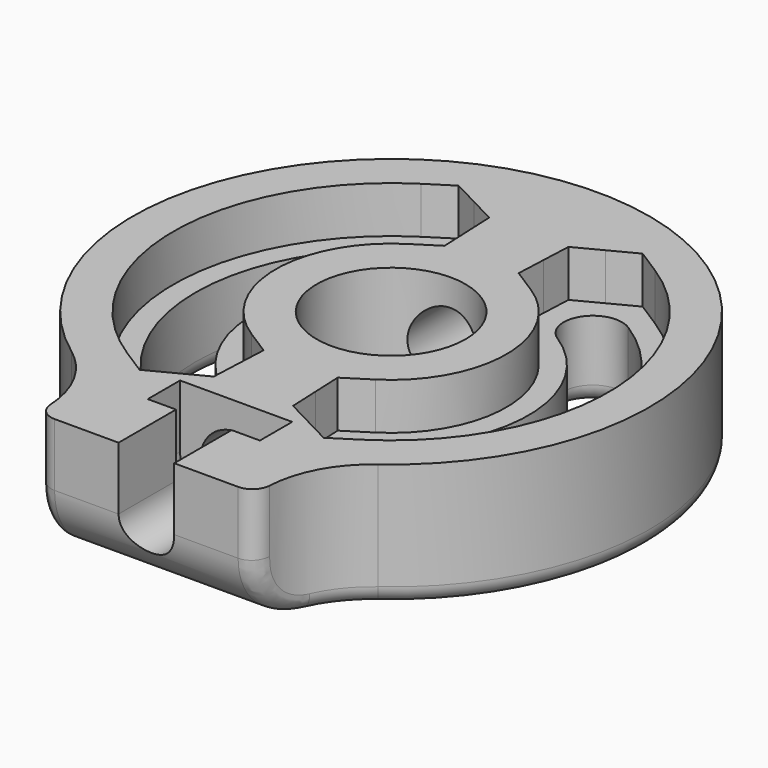
from build123d import *

# Parameters (mm, degrees)
SKETCH_R          = 4.15
EXTRUDE_DEPTH     = 7
FILLET_R          = 6
POCKET_DEPTH      = 20.501
POCKET_DEPTH_BACK = 8.301
SKETCH002_R       = 1.55
POCKET001_DEPTH   = 4
SKETCH003_R       = 2
POCKET002_DEPTH   = 27.445156
POCKET003_DEPTH   = 3.5
POCKET004_DEPTH   = 2.25
POCKET005_DEPTH   = 2.6
FILLET001_R       = 1


with BuildPart() as part:
    # Sketch → Extrude (new body)
    with BuildSketch(Plane.XY):
        with BuildLine():
            ThreePointArc((6.1, -13.044156), (0, 14.4), (-6.1, -13.044156))
            Line((-6.1, -17.044156), (-6.1, -13.044156))
            Line((6.1, -17.044156), (-6.1, -17.044156))
            Line((6.1, -13.044156), (6.1, -17.044156))
        make_face()
        Circle(SKETCH_R, mode=Mode.SUBTRACT)
        with BuildLine():
            ThreePointArc((-4.110342, 6.451945), (-7.65, 0), (-4.110342, -6.451945))
            ThreePointArc((-5.856566, -9.192967), (-3.612943, -8.695568), (-4.110342, -6.451945))
            ThreePointArc((-5.856566, 9.192967), (-10.9, 0), (-5.856566, -9.192967))
            ThreePointArc((-4.110342, 6.451945), (-3.612943, 8.695568), (-5.856566, 9.192967))
        make_face(mode=Mode.SUBTRACT)
        with BuildLine():
            ThreePointArc((4.110342, -6.451945), (7.65, 0), (4.110342, 6.451945))
            ThreePointArc((5.856566, 9.192967), (3.612943, 8.695568), (4.110342, 6.451945))
            ThreePointArc((5.856566, -9.192967), (10.9, 0), (5.856566, 9.192967))
            ThreePointArc((4.110342, -6.451945), (3.612943, -8.695568), (5.856566, -9.192967))
        make_face(mode=Mode.SUBTRACT)
    extrude(amount=EXTRUDE_DEPTH)

    # Fillet
    fillet_edges = [part.edges().sort_by_distance(p)[0] for p in [
        (6.1, -13.044156, 3.5),
        (-6.1, -13.044156, 3.5),
    ]]
    fillet(fillet_edges, radius=FILLET_R)

    # Sketch001 → Pocket (cut, two sides)
    with BuildSketch(Plane.YZ.offset(6.1)) as pocket_sk:
        with BuildLine():
            Line((-17.044156, 3.5), (-17.044156, 0))
            Line((-17.044156, 0), (-13.544156, 0))
            ThreePointArc((-17.044156, 3.5), (-16.01903, 1.025126), (-13.544156, 0))
        make_face()
    extrude(amount=-POCKET_DEPTH, mode=Mode.SUBTRACT)
    extrude(pocket_sk.sketch, amount=POCKET_DEPTH_BACK, mode=Mode.SUBTRACT)

    # Sketch002 → Pocket001 (cut)
    with BuildSketch(Plane.XZ.offset(17.044156)):
        with Locations((0, 3.5)):
            Circle(SKETCH002_R)
    extrude(amount=-POCKET001_DEPTH, mode=Mode.SUBTRACT)

    # Sketch003 → Pocket002 (cut, through all)
    with BuildSketch(Plane.XZ.offset(13.044156)):
        with Locations((0, 3.5)):
            Circle(SKETCH003_R)
    extrude(amount=-POCKET002_DEPTH, mode=Mode.SUBTRACT)

    # Sketch004 → Pocket003 (cut)
    with BuildSketch(Plane.XY.offset(7)):
        Polygon((-3.125, -10.794156), (-3.125, -13.044156), (-1.55, -13.044156), (-1.55, -17.044156), (1.55, -17.044156), (1.55, -13.044156), (3.125, -13.044156), (3.125, -10.794156), align=None)
    extrude(amount=-POCKET003_DEPTH, mode=Mode.SUBTRACT)

    # Sketch005 → Pocket004 (cut)
    with BuildSketch(Plane.XZ.offset(10.794156)):
        with BuildLine():
            Line((-3.125, 3.5), (3.125, 3.5))
            ThreePointArc((-3.125, 3.5), (0, 0.375), (3.125, 3.5))
        make_face()
    extrude(amount=POCKET004_DEPTH, mode=Mode.SUBTRACT)

    # Sketch006 → Pocket005 (cut)
    with BuildSketch(Plane.XY.offset(7)):
        with BuildLine():
            ThreePointArc((-3.45215, 5.41879), (-6.425, 0), (-3.45215, -5.41879))
            Line((-3.45215, -5.41879), (-2.064393, -6.302889))
            Line((-2.064393, -6.302889), (-2.136166, -7.946771))
            Line((-2.136166, -7.946771), (-2.20794, -9.590653))
            Line((-2.20794, -9.590653), (-3.66747, -10.350437))
            Line((-3.66747, -10.350437), (-5.127001, -11.11022))
            Line((-5.127001, -11.11022), (-6.514758, -10.226121))
            ThreePointArc((-6.514758, 10.226121), (-12.125, 0), (-6.514758, -10.226121))
            Line((-6.514758, 10.226121), (-5.127001, 11.11022))
            Line((-5.127001, 11.11022), (-3.66747, 10.350437))
            Line((-3.66747, 10.350437), (-2.20794, 9.590653))
            Line((-2.20794, 9.590653), (-2.136166, 7.946771))
            Line((-2.136166, 7.946771), (-2.064393, 6.302889))
            Line((-2.064393, 6.302889), (-3.45215, 5.41879))
        make_face()
        with BuildLine():
            ThreePointArc((3.45215, -5.41879), (6.425, 0), (3.45215, 5.41879))
            Line((3.45215, 5.41879), (2.06439, 6.302886))
            Line((2.06439, 6.302886), (2.136166, 7.946768))
            Line((2.136166, 7.946768), (2.207943, 9.590651))
            Line((2.207943, 9.590651), (3.667472, 10.350438))
            Line((3.667472, 10.350438), (5.127002, 11.110224))
            Line((5.127002, 11.110224), (6.514758, 10.226121))
            ThreePointArc((6.514758, -10.226121), (12.125, 0), (6.514758, 10.226121))
            Line((5.127001, -11.11022), (6.514758, -10.226121))
            Line((3.66747, -10.350437), (5.127001, -11.11022))
            Line((2.20794, -9.590653), (3.66747, -10.350437))
            Line((2.136166, -7.946771), (2.20794, -9.590653))
            Line((2.064393, -6.302889), (2.136166, -7.946771))
            Line((3.45215, -5.41879), (2.064393, -6.302889))
        make_face()
    extrude(amount=-POCKET005_DEPTH, mode=Mode.SUBTRACT)

    # Fillet001
    fillet001_edges = [part.edges().sort_by_distance(p)[0] for p in [
        (0, 14.4, 0),
        (7.582218, -12.475695, 0),
        (-7.582218, -12.475695, 0),
        (-3.612943, 8.695568, 0),
        (-7.65, 0, 0),
        (-10.9, 0, 0),
        (-3.612943, -8.695568, 0),
        (-4.15, 0, 0),
        (7.65, 0, 0),
        (3.612943, -8.695568, 0),
        (3.612943, 8.695568, 0),
        (10.9, 0, 0),
        (6.242385, -15.124706, 0.377203),
        (-6.242385, -15.124706, 0.377203),
        (6.1, -16.88554, 2.458293),
        (-6.1, -16.88554, 2.458293),
        (6.1, -17.044156, 5.25),
        (-6.1, -17.044156, 5.25),
    ]]
    fillet(fillet001_edges, radius=FILLET001_R)


solid = part.part
